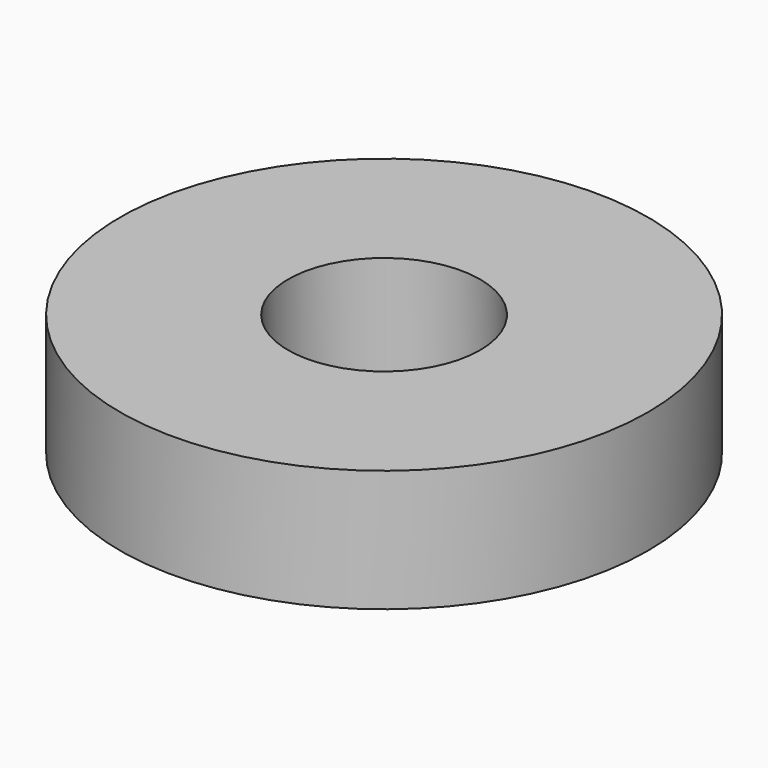
from build123d import *

# Parameters (mm, degrees)
F0_W = 7
F0_H = 5.08


with BuildPart() as f2:
    # F0 (on Front) → F2 (revolve)
    with BuildSketch(Plane.XZ):
        Rectangle(F0_W, F0_H)
    revolve(axis=Axis((-7.5, 0, 2.8776), (0, 0, 1)))


solid = f2.part
